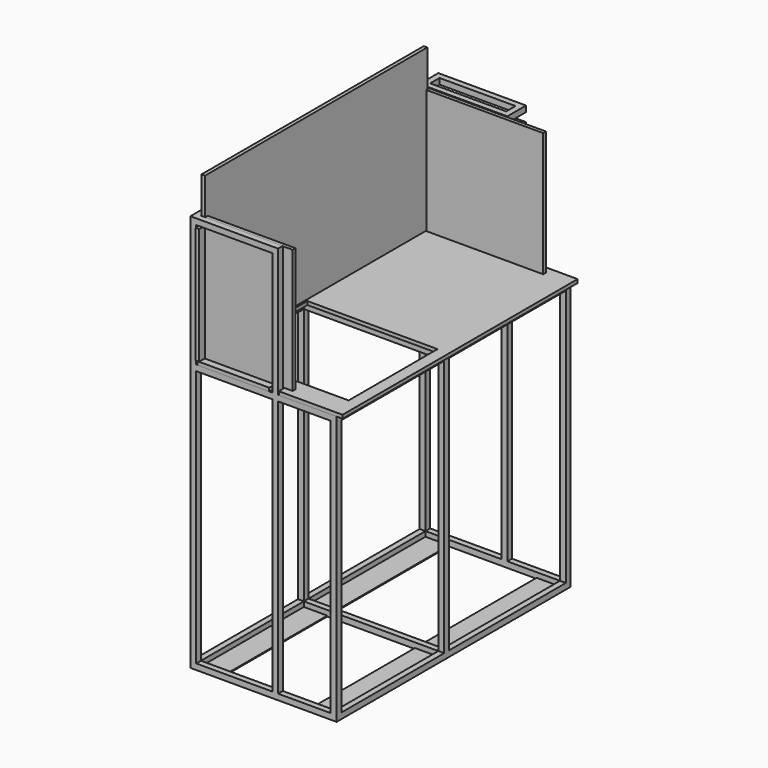
from build123d import *

# Parameters (mm, degrees)
F0_W      = 500
F0_H      = 1000
F0_W_2    = 460
F0_H_2    = 960
F1_DEPTH  = 20
F2_W      = 20
F2_H      = 20
F3_DEPTH  = 1340
F4_W      = 20
F4_H      = 20
F5_DEPTH  = 900
F6_W      = 20
F6_H      = 20
F7_DEPTH  = 960
F8_W      = 20
F8_H      = 20
F9_DEPTH  = 180
F10_W     = 20
F10_H     = 20
F11_DEPTH = 880
F12_W     = 20
F12_H     = 20
F13_DEPTH = 460
F14_W     = 20
F14_H     = 20
F15_DEPTH = 960
F16_W     = 20
F16_H     = 20
F17_DEPTH = 260
F18_W     = 20
F18_H     = 20
F19_DEPTH = 880
F20_W     = 20
F20_H     = 20
F21_DEPTH = 460
F22_W     = 20
F22_H     = 20
F23_DEPTH = 960
F24_W     = 20
F24_H     = 20
F25_DEPTH = 260
F26_W     = 20
F26_H     = 20
F27_DEPTH = 60
F28_W     = 20
F28_H     = 20
F29_DEPTH = 260
F30_W     = 80
F30_H     = 3
F31_DEPTH = 500
F32_W     = 80
F32_H     = 3
F33_DEPTH = 440
F34_W     = 20
F34_H     = 20
F35_DEPTH = 260
F37_W     = 520
F37_H     = 950
F38_DEPTH = 12
F39_W     = 445
F39_H     = 380
F40_DEPTH = 25
F41_W     = 245.8116933703
F41_H     = 12
F41_W_2   = 217.8999376297
F42_DEPTH = 25
F43_W     = 210.899476409
F43_H     = 12
F43_W_2   = 247.9199171066
F44_DEPTH = 30
F46_W     = 12
F46_H     = 950
F47_DEPTH = 550
F48_W     = 12
F48_H     = 399.1171274185
F49_DEPTH = 25
F50_W     = 400
F50_H     = 12
F51_DEPTH = 425
F52_W     = 12
F52_H     = 400.1586589813
F53_DEPTH = 25
F54_W     = 300
F54_H     = 12
F55_DEPTH = 425


with BuildPart() as f1:
    # F0 (on Top) → F1 (new body)
    with BuildSketch(Plane.XY):
        with Locations((149.4873911142, 20.100149343)):
            Rectangle(F0_W, F0_H)
        with Locations((149.4873911142, 20.100149343)):
            Rectangle(F0_W_2, F0_H_2, mode=Mode.SUBTRACT)
    extrude(amount=F1_DEPTH)

    # F2 (on face) → F3 (join)
    with BuildSketch(Plane.XY.offset(20)):
        with Locations((-90.5126088858, 510.100149343)):
            Rectangle(F2_W, F2_H)
        with Locations((-90.5126088858, -469.899850657)):
            Rectangle(F2_W, F2_H)
        with Locations((189.4873911142, -469.899850657)):
            Rectangle(F2_W, F2_H)
        with Locations((189.4873911142, 510.100149343)):
            Rectangle(F2_W, F2_H)
    extrude(amount=F3_DEPTH)

    # F4 (on face) → F5 (join)
    with BuildSketch(Plane.XY.offset(20)):
        with Locations((389.4873911142, 510.100149343)):
            Rectangle(F4_W, F4_H)
        with Locations((389.4873911142, -469.899850657)):
            Rectangle(F4_W, F4_H)
    extrude(amount=F5_DEPTH)

    # F6 (on face) → F7 (join, through all)
    with BuildSketch(Plane.XZ.offset(-500.100149343)):
        with Locations((389.4873911142, 910)):
            Rectangle(F6_W, F6_H)
    extrude(amount=F7_DEPTH)

    # F8 (on face) → F9 (join, through all)
    with BuildSketch(Plane(origin=(379.4873911142, 0, 0), x_dir=(0, -1, 0), z_dir=(-1, 0, 0))):
        with Locations((469.899850657, 910)):
            Rectangle(F8_W, F8_H)
        with Locations((-510.100149343, 910)):
            Rectangle(F8_W, F8_H)
    extrude(amount=F9_DEPTH)

    # F10 (on face) → F11 (join, through all)
    with BuildSketch(Plane.XY.offset(20)):
        with Locations((389.4873911142, -9.899850657)):
            Rectangle(F10_W, F10_H)
    extrude(amount=F11_DEPTH)

    # F12 (on face) → F13 (join, through all)
    with BuildSketch(Plane(origin=(379.4873911142, 0, 0), x_dir=(0, -1, 0), z_dir=(-1, 0, 0))):
        with Locations((9.899850657, 10)):
            Rectangle(F12_W, F12_H)
    extrude(amount=F13_DEPTH)

    # F14 (on face) → F15 (join, through all)
    with BuildSketch(Plane.XZ.offset(-500.100149343)):
        with Locations((-90.5126088858, 910)):
            Rectangle(F14_W, F14_H)
    extrude(amount=F15_DEPTH)

    # F16 (on face) → F17 (join, through all)
    with BuildSketch(Plane.YZ.offset(-80.5126088858)):
        with Locations((-469.899850657, 910)):
            Rectangle(F16_W, F16_H)
        with Locations((510.100149343, 910)):
            Rectangle(F16_W, F16_H)
    extrude(amount=F17_DEPTH)

    # F18 (on face) → F19 (join, through all)
    with BuildSketch(Plane.XY.offset(20)):
        with Locations((-90.5126088858, -9.899850657)):
            Rectangle(F18_W, F18_H)
    extrude(amount=F19_DEPTH)

    # F20 (on face) → F21 (join, through all)
    with BuildSketch(Plane(origin=(379.4873911142, 0, 0), x_dir=(0, -1, 0), z_dir=(-1, 0, 0))):
        with Locations((9.899850657, 910)):
            Rectangle(F20_W, F20_H)
    extrude(amount=F21_DEPTH)

    # F22 (on face) → F23 (join, through all)
    with BuildSketch(Plane.XZ.offset(-500.100149343)):
        with Locations((-90.5126088858, 1350)):
            Rectangle(F22_W, F22_H)
    extrude(amount=F23_DEPTH)

    # F24 (on face) → F25 (join, through all)
    with BuildSketch(Plane.YZ.offset(-80.5126088858)):
        with Locations((-469.899850657, 1350)):
            Rectangle(F24_W, F24_H)
        with Locations((510.100149343, 1350)):
            Rectangle(F24_W, F24_H)
    extrude(amount=F25_DEPTH)

    # F26 (on face) → F27 (join)
    with BuildSketch(Plane(origin=(0, 520.100149343, 0), x_dir=(-1, 0, 0), z_dir=(0, 1, 0))):
        with Locations((-189.4873911142, 1350)):
            Rectangle(F26_W, F26_H)
        with Locations((90.5126088858, 1350)):
            Rectangle(F26_W, F26_H)
        with Locations((-189.4873911142, 1300)):
            Rectangle(F26_W, F26_H)
        with Locations((90.5126088858, 1300)):
            Rectangle(F26_W, F26_H)
    extrude(amount=F27_DEPTH)

    # F28 (on face) → F29 (join, through all)
    with BuildSketch(Plane.YZ.offset(-80.5126088858)):
        with Locations((570.100149343, 1350)):
            Rectangle(F28_W, F28_H)
    extrude(amount=F29_DEPTH)

    # F30 (on face) → F31 (join, through all)
    with BuildSketch(Plane.XZ.offset(-500.100149343)):
        with Locations((339.4873911142, 1.5)):
            Rectangle(F30_W, F30_H)
        with Locations((-40.5126088858, 1.5)):
            Rectangle(F30_W, F30_H)
    extrude(amount=F31_DEPTH)

    # F32 (on face) → F33 (join, through all)
    with BuildSketch(Plane.XZ.offset(19.899850657)):
        with Locations((339.4873911142, 1.5)):
            Rectangle(F32_W, F32_H)
        with Locations((-40.5126088858, 1.5)):
            Rectangle(F32_W, F32_H)
    extrude(amount=F33_DEPTH)

    # F34 (on face) → F35 (join, through all)
    with BuildSketch(Plane.YZ.offset(-80.5126088858)):
        with Locations((570.100149343, 1300)):
            Rectangle(F34_W, F34_H)
    extrude(amount=F35_DEPTH)


with BuildPart() as f38:
    # F37 (on offset) → F38 (new body)
    with BuildSketch(Plane.XY.offset(921)):
        with Locations((161.7344564199, 17.6442921162)):
            Rectangle(F37_W, F37_H)
    extrude(amount=F38_DEPTH)

    # F39 (on face) → F40 (cut)
    with BuildSketch(Plane.XY.offset(933)):
        with Locations((160.0988378877, -217.3557078838)):
            Rectangle(F39_W, F39_H)
    extrude(amount=-F40_DEPTH, mode=Mode.SUBTRACT)

    # F41 (on face) → F42 (join)
    with BuildSketch(Plane.XZ.offset(457.3557078838)):
        with Locations((48.0913855135, 927)):
            Rectangle(F41_W, F41_H)
        with Locations((312.7844876051, 927)):
            Rectangle(F41_W_2, F41_H)
    extrude(amount=F42_DEPTH)

    # F43 (on face) → F44 (join)
    with BuildSketch(Plane(origin=(0, 492.6442921162, 0), x_dir=(-1, 0, 0), z_dir=(0, 1, 0))):
        with Locations((-316.2847182155, 927)):
            Rectangle(F43_W, F43_H)
        with Locations((-50.0684678555, 927)):
            Rectangle(F43_W_2, F43_H)
    extrude(amount=F44_DEPTH)


with BuildPart() as f47:
    # F46 (on offset) → F47 (new body)
    with BuildSketch(Plane.XY.offset(934)):
        with Locations((-73.6587392688, 16.8040454388)):
            Rectangle(F46_W, F46_H)
    extrude(amount=F47_DEPTH)

    # F48 (on face) → F49 (join)
    with BuildSketch(Plane.XZ.offset(458.1959545612)):
        with Locations((-73.6587392688, 1133.5585637093)):
            Rectangle(F48_W, F48_H)
    extrude(amount=F49_DEPTH)

    # F52 (on face) → F53 (join)
    with BuildSketch(Plane(origin=(0, 491.8040454388, 0), x_dir=(-1, 0, 0), z_dir=(0, 1, 0))):
        with Locations((73.6587392688, 1134.0793294907)):
            Rectangle(F52_W, F52_H)
    extrude(amount=F53_DEPTH)


with BuildPart() as f51:
    # F50 (on offset) → F51 (new body)
    with BuildSketch(Plane.XY.offset(934)):
        with Locations((133.9127615094, 491.4055588245)):
            Rectangle(F50_W, F50_H)
    extrude(amount=F51_DEPTH)


with BuildPart() as f55:
    # F54 (on offset) → F55 (new body)
    with BuildSketch(Plane.XY.offset(934)):
        with Locations((83.0905154347, -453.5512151718)):
            Rectangle(F54_W, F54_H)
    extrude(amount=F55_DEPTH)


solid = Compound([f1.part, f38.part, f47.part, f51.part, f55.part])
